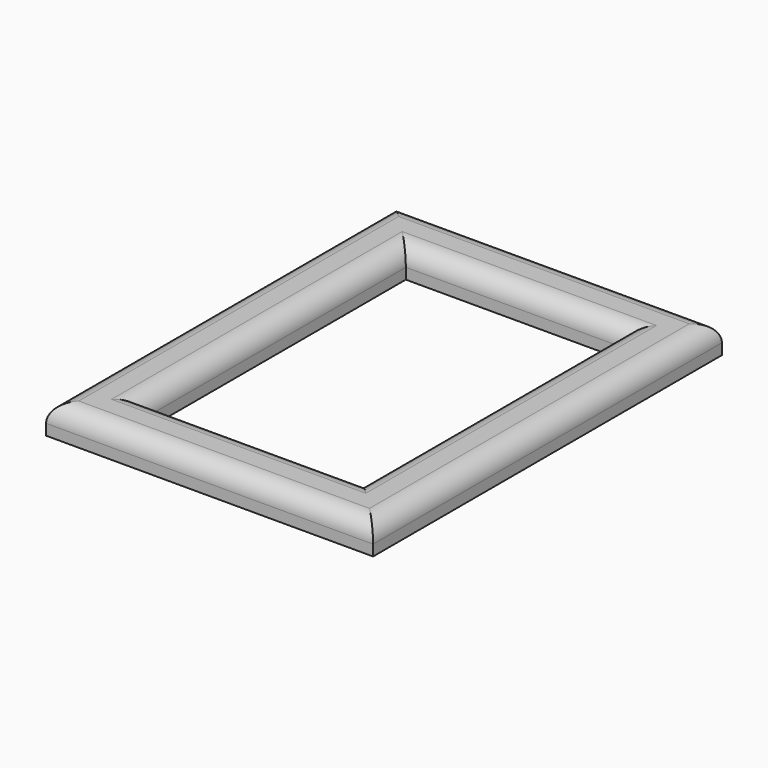
from build123d import *

# Parameters (mm, degrees)
F0_W     = 90
F0_H     = 120
F0_W_2   = 80
F0_H_2   = 110
F0_W_3   = 60
F0_H_3   = 90
F1_DEPTH = 8
F2_R     = 5


with BuildPart() as f1:
    # F0 (on Top) → F1 (new body)
    with BuildSketch(Plane.XY):
        Rectangle(F0_W, F0_H)
        Rectangle(F0_W_2, F0_H_2, mode=Mode.SUBTRACT)
        Rectangle(F0_W_2, F0_H_2)
        Rectangle(F0_W_3, F0_H_3, mode=Mode.SUBTRACT)
    extrude(amount=F1_DEPTH)

    # F2
    f2_edges = [f1.edges().sort_by_distance(p)[0] for p in [
        (0, -60, 8),
        (45, 0, 8),
        (0, 60, 8),
        (-45, 0, 8),
        (-30, 0, 8),
        (0, 45, 8),
        (30, 0, 8),
        (0, -45, 8),
    ]]
    fillet(f2_edges, radius=F2_R)


solid = f1.part
